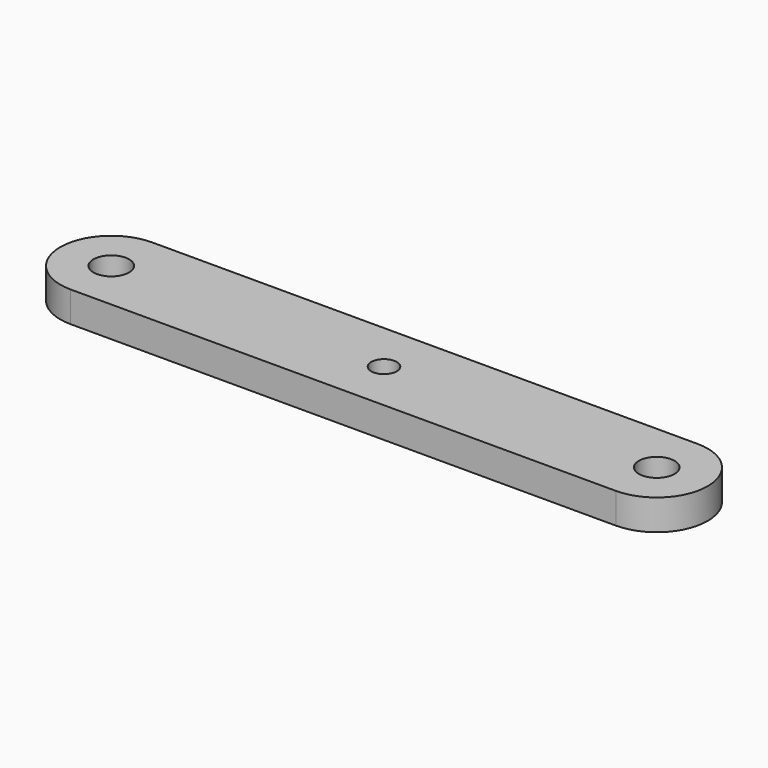
from build123d import *

# Parameters (mm, degrees)
F0_R     = 1.75
F0_R_2   = 1.25
F1_DEPTH = 3


with BuildPart() as f1:
    # F0 (on Top) → F1 (new body)
    with BuildSketch(Plane.XY):
        with BuildLine():
            Line((26.75, 5), (-26.75, 5))
            ThreePointArc((-26.75, 5), (-31.75, 0), (-26.75, -5))
            Line((-26.75, -5), (26.75, -5))
            ThreePointArc((26.75, -5), (31.75, 0), (26.75, 5))
        make_face()
        with Locations((-26.75, 0)):
            Circle(F0_R, mode=Mode.SUBTRACT)
        Circle(F0_R_2, mode=Mode.SUBTRACT)
        with Locations((26.75, 0)):
            Circle(F0_R, mode=Mode.SUBTRACT)
    extrude(amount=F1_DEPTH)


solid = f1.part
